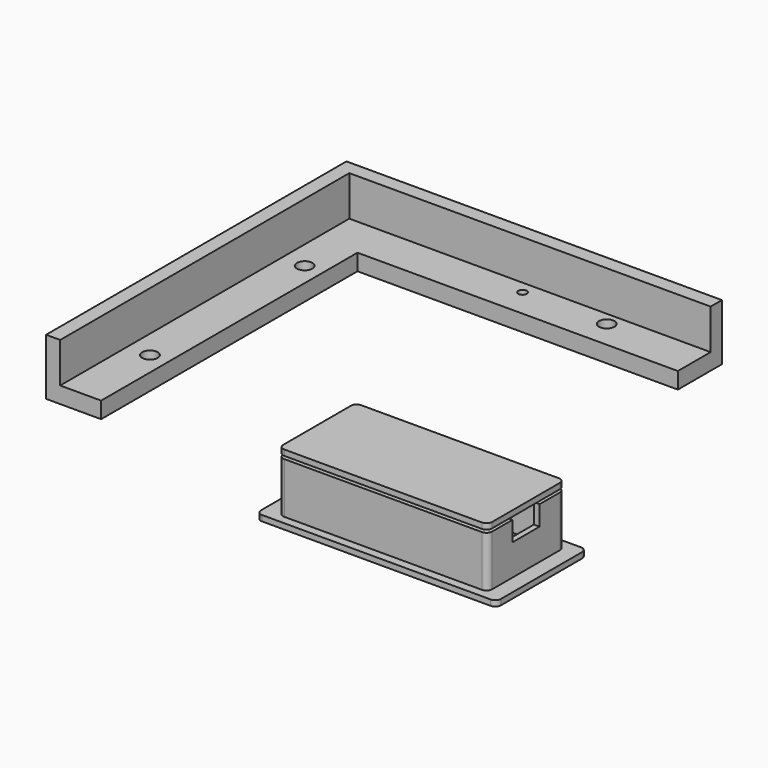
from build123d import *

# Parameters (mm, degrees)
PAD_DEPTH                   = 20
POCKET_DEPTH                = 14.2
SKETCH002_R                 = 2.75
HOLE_DEPTH                  = 25
SKETCH003_R                 = 1.5
HOLE001_DEPTH               = 25
PAD001_DEPTH                = 2
SKETCH005_R                 = 2.75
HOLE002_DEPTH               = 25
SKETCH005_MIRRORED002_2_R   = 2.75
HOLE002_MIRRORED002_2_DEPTH = 25
PAD002_DEPTH                = 20
SKETCH007_W                 = 70
SKETCH007_H                 = 30
POCKET001_DEPTH             = 18
SKETCH010_W                 = 12
SKETCH010_H                 = 7
POCKET002_DEPTH             = 5
SKETCH009_W                 = 69.8
SKETCH009_H                 = 29.8
PAD003_DEPTH                = 1
PAD004_DEPTH                = 2


with BuildPart() as bezel:
    # Sketch001 → Pad (new body)
    with BuildSketch(Plane.XY):
        Polygon((-133, 133), (0, 133), (0, 113.5), (-113.5, 113.5), (-113.5, 0), (-133, 0), align=None)
    extrude(amount=PAD_DEPTH)

    # Sketch → Pocket (cut)
    with BuildSketch(Plane.XY.offset(20)):
        Polygon((-128, 128), (0, 128), (0, 113.5), (-113.5, 113.5), (-113.5, 0), (-128, 0), align=None)
    extrude(amount=-POCKET_DEPTH, mode=Mode.SUBTRACT)

    # Sketch002 → Hole (cut)
    with BuildSketch(Plane.XY.offset(5.8)):
        with Locations((-120, 29.75)):
            Circle(SKETCH002_R)
        with Locations((-33, 123.25)):
            Circle(SKETCH002_R)
        with Locations((-120, 98.25)):
            Circle(SKETCH002_R)
    extrude(amount=-HOLE_DEPTH, mode=Mode.SUBTRACT)

    # Sketch003 → Hole001 (cut)
    with BuildSketch(Plane.XY.offset(5.8)):
        with Locations((-63, 123.5)):
            Circle(SKETCH003_R)
    extrude(amount=-HOLE001_DEPTH, mode=Mode.SUBTRACT)


with BuildPart() as center_bracket:
    # Sketch004 → Pad001 (new body)
    with BuildSketch(Plane.XY):
        with BuildLine():
            Line((-40.5, 20), (40.5, 20))
            ThreePointArc((42.5, 18), (41.914214, 19.414214), (40.5, 20))
            Line((42.5, 18), (42.5, -18))
            ThreePointArc((40.5, -20), (41.914214, -19.414214), (42.5, -18))
            Line((40.5, -20), (-40.5, -20))
            ThreePointArc((-42.5, -18), (-41.914214, -19.414214), (-40.5, -20))
            Line((-42.5, -18), (-42.5, 18))
            ThreePointArc((-40.5, 20), (-41.914214, 19.414214), (-42.5, 18))
        make_face()
    extrude(amount=PAD001_DEPTH)

    # Sketch005 → Hole002 (cut)
    with BuildSketch(Plane.XY.offset(2)):
        with Locations((-33, 9.75)):
            Circle(SKETCH005_R)
    hole002 = extrude(amount=-HOLE002_DEPTH, mode=Mode.SUBTRACT)

    # Sketch005 Mirrored002 2 → Hole002 Mirrored002 2 (cut)
    with BuildSketch(Plane(origin=(0, 0, 2), x_dir=(-1, 0, 0), z_dir=(0, 0, -1))):
        with Locations((-33, 9.75)):
            Circle(SKETCH005_MIRRORED002_2_R)
    hole002_mirrored002_2 = extrude(amount=HOLE002_MIRRORED002_2_DEPTH, mode=Mode.SUBTRACT)

    # Mirrored003: Hole002, Hole002 Mirrored002 2 across XZ
    add(hole002.mirror(Plane.XZ), mode=Mode.SUBTRACT)
    add(hole002_mirrored002_2.mirror(Plane.XZ), mode=Mode.SUBTRACT)


with BuildPart() as pico_case:
    # Sketch006 → Pad002 (new body)
    with BuildSketch(Plane.XY):
        with BuildLine():
            Line((-35, 17), (35, 17))
            ThreePointArc((37, 15), (36.414214, 16.414214), (35, 17))
            Line((37, 15), (37, -15))
            ThreePointArc((35, -17), (36.414214, -16.414214), (37, -15))
            Line((35, -17), (-35, -17))
            ThreePointArc((-37, -15), (-36.414214, -16.414214), (-35, -17))
            Line((-37, -15), (-37, 15))
            ThreePointArc((-35, 17), (-36.414214, 16.414214), (-37, 15))
        make_face()
    extrude(amount=PAD002_DEPTH)

    # Sketch007 → Pocket001 (cut)
    with BuildSketch(Plane.XY.offset(20)):
        Rectangle(SKETCH007_W, SKETCH007_H)
    extrude(amount=-POCKET001_DEPTH, mode=Mode.SUBTRACT)

    # Sketch010 → Pocket002 (cut)
    with BuildSketch(Plane.YZ.offset(37)):
        with Locations((0, 16.5)):
            Rectangle(SKETCH010_W, SKETCH010_H)
    extrude(amount=-POCKET002_DEPTH, mode=Mode.SUBTRACT)


with BuildPart() as lid:
    # Sketch009 → Pad003 (new body)
    with BuildSketch(Plane.XY.offset(20)):
        Rectangle(SKETCH009_W, SKETCH009_H)
    extrude(amount=PAD003_DEPTH)

    # Sketch008 → Pad004 (join)
    with BuildSketch(Plane.XY.offset(21)):
        with BuildLine():
            Line((-35, 17), (35, 17))
            ThreePointArc((37, 15), (36.414214, 16.414214), (35, 17))
            Line((37, 15), (37, -15))
            ThreePointArc((35, -17), (36.414214, -16.414214), (37, -15))
            Line((35, -17), (-35, -17))
            ThreePointArc((-37, -15), (-36.414214, -16.414214), (-35, -17))
            Line((-37, -15), (-37, 15))
            ThreePointArc((-35, 17), (-36.414214, 16.414214), (-37, 15))
        make_face()
    extrude(amount=PAD004_DEPTH)


solid = Compound([bezel.part, center_bracket.part, pico_case.part, lid.part])
